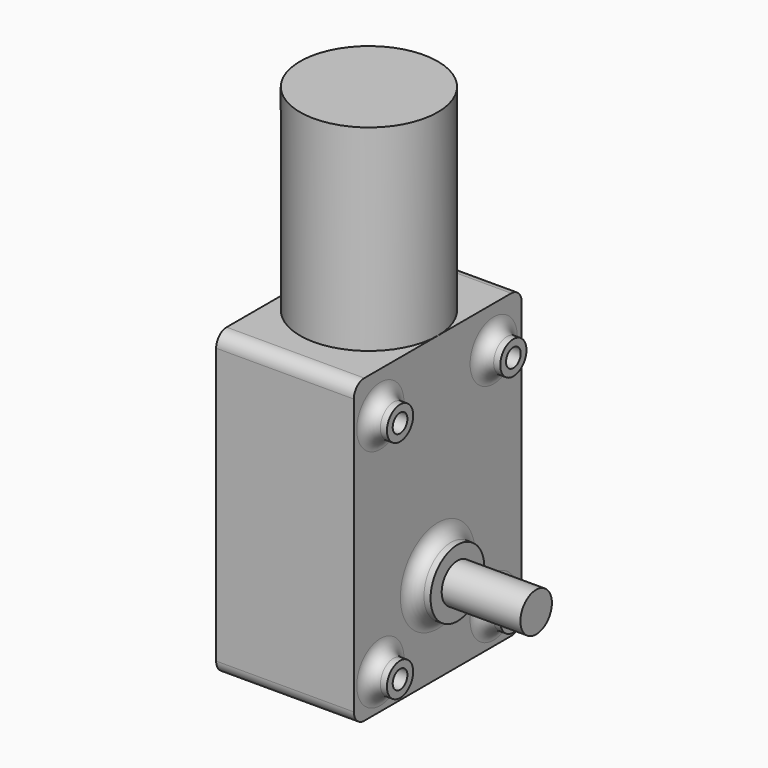
from build123d import *

# Parameters (mm, degrees)
F0_W     = 21
F0_H     = 46
F1_DEPTH = 16
F2_R     = 3
F3_DEPTH = 15
F2_R_2   = 2.5
F2_R_3   = 1.4
F2_R_4   = 5.129658
F4_DEPTH = 3
F5_R     = 2
F7_DEPTH = 30


with BuildPart() as f1:
    # F0 (on Front) → F1 (new body, symmetric)
    with BuildSketch(Plane.XZ):
        with Locations((-9.810345, 23)):
            Rectangle(F0_W, F0_H)
    extrude(amount=F1_DEPTH, both=True)

    # F2 (on face) → F3 (join)
    with BuildSketch(Plane.YZ.offset(0.689655)):
        with Locations((0, 13.778462)):
            Circle(F2_R)
    extrude(amount=F3_DEPTH)

    # F2 (on face) → F4 (join)
    with BuildSketch(Plane.YZ.offset(0.689655)):
        with Locations((-10.940661, 39.692998)):
            Circle(F2_R_2)
        with Locations((-10.940661, 39.692998)):
            Circle(F2_R_3, mode=Mode.SUBTRACT)
        with Locations((-10.940661, 5.295333)):
            Circle(F2_R_2)
        with Locations((-10.940661, 5.295333)):
            Circle(F2_R_3, mode=Mode.SUBTRACT)
        with Locations((10.659339, 5.295333)):
            Circle(F2_R_2)
        with Locations((10.659339, 5.295333)):
            Circle(F2_R_3, mode=Mode.SUBTRACT)
        with Locations((10.659339, 39.692998)):
            Circle(F2_R_2)
        with Locations((10.659339, 39.692998)):
            Circle(F2_R_3, mode=Mode.SUBTRACT)
        with Locations((0, 13.778462)):
            Circle(F2_R_4)
        with Locations((0, 13.778462)):
            Circle(F2_R, mode=Mode.SUBTRACT)
    extrude(amount=F4_DEPTH)

    # F5
    f5_edges = [f1.edges().sort_by_distance(p)[0] for p in [
        (0.689655, -13.440661, 39.692998),
        (0.689655, -13.440661, 5.295333),
        (0.689655, -5.129658, 13.778462),
        (0.689655, 8.159339, 5.295333),
        (0.689655, 8.159339, 39.692998),
        (-9.810345, -16, 46),
        (-9.810345, -16, 0),
        (-9.810345, 16, 0),
        (-9.810345, 16, 46),
    ]]
    fillet(f5_edges, radius=F5_R)

    # F6 (on face) → F7 (join)
    with BuildSketch(Plane.XY.offset(46)):
        with BuildLine():
            ThreePointArc((-20.310345, 0), (-9.810345, -10.5), (0.689655, 0))
            ThreePointArc((0.689655, 0), (-9.810345, 10.5), (-20.310345, 0))
        make_face()
    extrude(amount=F7_DEPTH)


solid = f1.part
